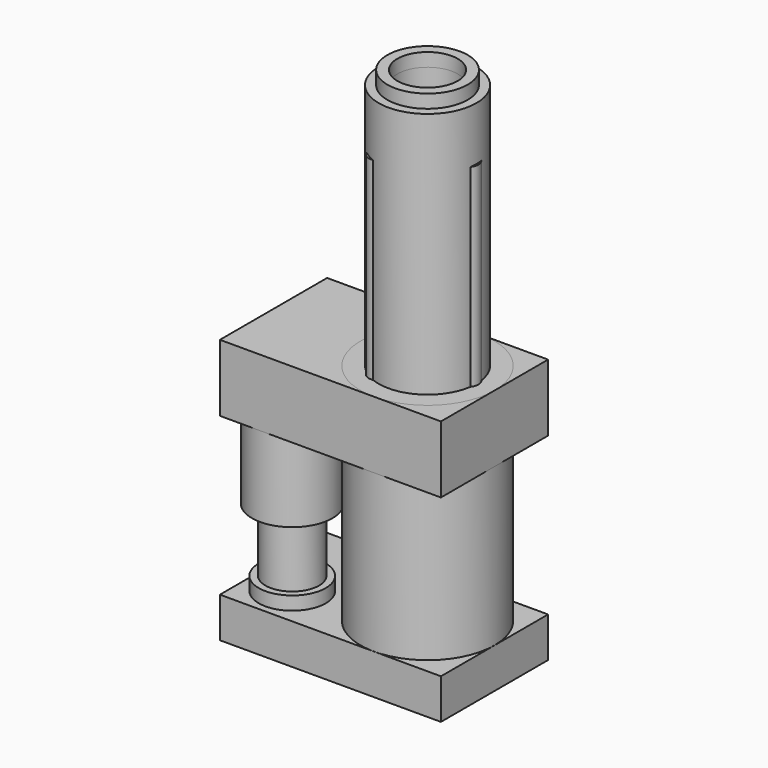
from build123d import *

# Parameters (mm, degrees)
CYLINDER_R                  = 3
CYLINDER_DEPTH              = 11
CYLINDER001_R               = 2
CYLINDER001_DEPTH           = 4.75
CYLINDER002_R               = 2.5
CYLINDER002_DEPTH           = 2
CYLINDER006_R               = 0.8
CYLINDER006_DEPTH           = 14.5
CYLINDER007_R               = 2.25
CYLINDER007_DEPTH           = 18.5
CYLINDER003_R               = 3.65
CYLINDER003_DEPTH           = 18.5
CYLINDER005_R               = 2.25
CYLINDER005_DEPTH           = 1
CYLINDER004_R               = 3
CYLINDER004_DEPTH           = 1
CYLINDER008_R               = 0.8
CYLINDER008_DEPTH           = 14.5
CYLINDER008_PLACEMENT_ANGLE = 120
CYLINDER009_R               = 0.8
CYLINDER009_DEPTH           = 14.5
CYLINDER009_PLACEMENT_ANGLE = 240
BOX_W                       = 16.5
BOX_H                       = 10
BOX_DEPTH                   = 5
CYLINDER010_R               = 5
CYLINDER010_DEPTH           = 16.75
BOX001_W                    = 16.5
BOX001_H                    = 10
BOX001_DEPTH                = 3


with BuildPart() as bottom_upper:
    # Cylinder → Cylinder (new body)
    with BuildSketch(Plane(origin=(-8.5, -2, 2.25), x_dir=(1, 0, 0), z_dir=(0, 0, 1))):
        Circle(CYLINDER_R)
    extrude(amount=CYLINDER_DEPTH)


with BuildPart() as cable_tie_groove:
    # Cylinder001 → Cylinder001 (new body)
    with BuildSketch(Plane(origin=(-8.5, -2, -2.5), x_dir=(1, 0, 0), z_dir=(0, 0, 1))):
        Circle(CYLINDER001_R)
    extrude(amount=CYLINDER001_DEPTH)


with BuildPart() as bottom_lower:
    # Cylinder002 → Cylinder002 (new body)
    with BuildSketch(Plane(origin=(-8.5, -2, -4.5), x_dir=(1, 0, 0), z_dir=(0, 0, 1))):
        Circle(CYLINDER002_R)
    extrude(amount=CYLINDER002_DEPTH)


with BuildPart() as cylinder006:
    # Cylinder006 → Cylinder006 (new body)
    with BuildSketch(Plane(origin=(3, 0, 13.2), x_dir=(1, 0, 0), z_dir=(0, 0, 1))):
        Circle(CYLINDER006_R)
    extrude(amount=CYLINDER006_DEPTH)


with BuildPart() as cylinder007:
    # Cylinder007 → Cylinder007 (new body)
    with BuildSketch(Plane.XY.offset(13.2)):
        Circle(CYLINDER007_R)
    extrude(amount=CYLINDER007_DEPTH)


with BuildPart() as cut:
    # Cylinder003 → Cylinder003 (new body)
    with BuildSketch(Plane.XY.offset(13.2)):
        Circle(CYLINDER003_R)
    extrude(amount=CYLINDER003_DEPTH)

    # Cut: cut Cylinder007
    add(cylinder007.part, mode=Mode.SUBTRACT)


with BuildPart() as cylinder005:
    # Cylinder005 → Cylinder005 (new body)
    with BuildSketch(Plane.XY.offset(31.7)):
        Circle(CYLINDER005_R)
    extrude(amount=CYLINDER005_DEPTH)


with BuildPart() as cut001:
    # Cylinder004 → Cylinder004 (new body)
    with BuildSketch(Plane.XY.offset(31.7)):
        Circle(CYLINDER004_R)
    extrude(amount=CYLINDER004_DEPTH)

    # Cut001: cut Cylinder005
    add(cylinder005.part, mode=Mode.SUBTRACT)


with BuildPart() as cylinder008:
    # Cylinder008 → Cylinder008 (new body)
    with BuildSketch(Plane.XY):
        Circle(CYLINDER008_R)
    extrude(amount=CYLINDER008_DEPTH)


with BuildPart() as cylinder008_1:
    # Cylinder008 placement: moved
    add(cylinder008.part.moved(Location((-1.5, 2.598076, 13.2))).rotate(Axis((-1.5, 2.598076, 13.2), (0, 0, 1)), CYLINDER008_PLACEMENT_ANGLE))


with BuildPart() as cylinder009:
    # Cylinder009 → Cylinder009 (new body)
    with BuildSketch(Plane.XY):
        Circle(CYLINDER009_R)
    extrude(amount=CYLINDER009_DEPTH)


with BuildPart() as cylinder009_1:
    # Cylinder009 placement: moved
    add(cylinder009.part.moved(Location((-1.5, -2.598076, 13.2))).rotate(Axis((-1.5, -2.598076, 13.2), (0, 0, 1)), CYLINDER009_PLACEMENT_ANGLE))


with BuildPart() as cube_top:
    # Box → Box (new body)
    with BuildSketch(Plane(origin=(-11.5, -5, 8.25), x_dir=(1, 0, 0), z_dir=(0, 0, 1))):
        with Locations((8.25, 5)):
            Rectangle(BOX_W, BOX_H)
    extrude(amount=BOX_DEPTH)


with BuildPart() as bottom_other:
    # Cylinder010 → Cylinder010 (new body)
    with BuildSketch(Plane.XY.offset(-3.5)):
        Circle(CYLINDER010_R)
    extrude(amount=CYLINDER010_DEPTH)


with BuildPart() as cube_bottom:
    # Box001 → Box001 (new body)
    with BuildSketch(Plane(origin=(-11.5, -5, -6.5), x_dir=(1, 0, 0), z_dir=(0, 0, 1))):
        with Locations((8.25, 5)):
            Rectangle(BOX001_W, BOX001_H)
    extrude(amount=BOX001_DEPTH)


solid = Compound([bottom_upper.part, cable_tie_groove.part, bottom_lower.part, cylinder006.part, cut.part, cut001.part, cylinder008_1.part, cylinder009_1.part, cube_top.part, bottom_other.part, cube_bottom.part])
